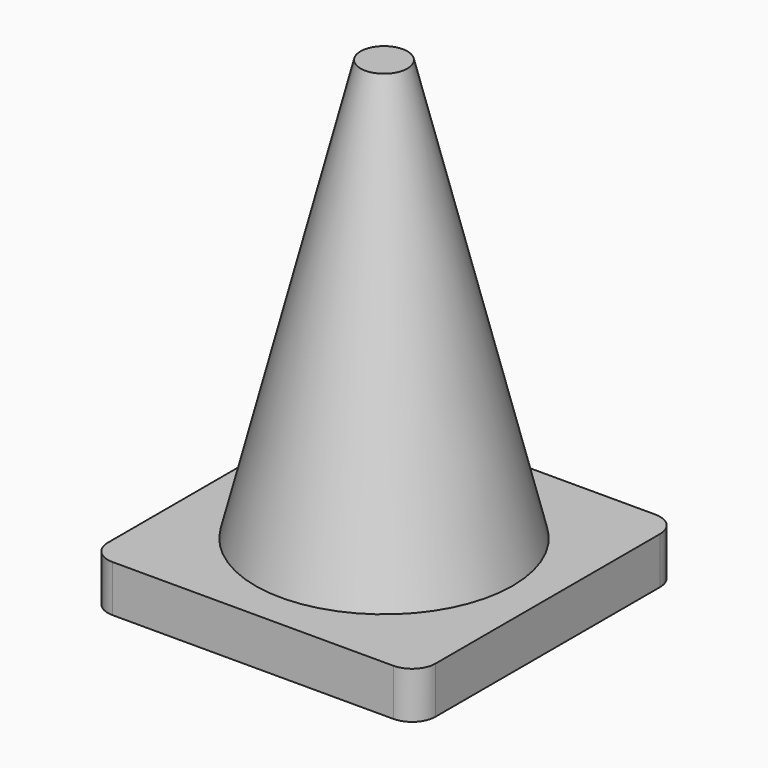
from build123d import *

# Parameters (mm, degrees)
BOX_W     = 14
BOX_H     = 14
BOX_DEPTH = 2
FILLET_R  = 1


with BuildPart() as fillet_body:
    # Box → Box (new body)
    with BuildSketch(Plane.XY):
        with Locations((7, 7)):
            Rectangle(BOX_W, BOX_H)
    extrude(amount=BOX_DEPTH)

    # Fillet
    fillet_edges = [fillet_body.edges().sort_by_distance(p)[0] for p in [
        (0, 0, 1),
        (0, 14, 1),
        (14, 0, 1),
        (14, 14, 1),
    ]]
    fillet(fillet_edges, radius=FILLET_R)


with BuildPart() as fusion:
    # Cone → Cone (revolve)
    with BuildSketch(Plane(origin=(7, 7, 0), x_dir=(1, 0, 0), z_dir=(0, -1, 0))):
        Polygon((0, 0), (6, 0), (1, 20), (0, 20), align=None)
    revolve(axis=Axis((7, 7, 0), (0, 0, 1)))

    # Fusion: union Fillet body
    add(fillet_body.part)


solid = fusion.part
